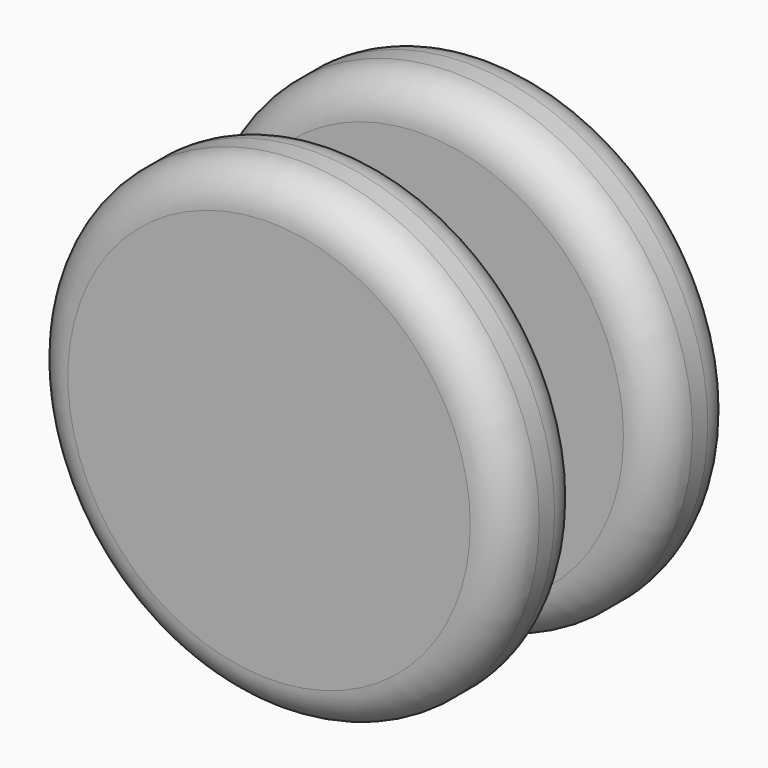
from build123d import *

# Parameters (mm, degrees)
F0_R     = 31.75
F1_DEPTH = 12.7
F2_R     = 5.08
F3_R     = 9.525
F4_DEPTH = 6.35
F7_D     = 2.54
F7_DEPTH = 25.4
F7_TIP   = 0.7630929862


with BuildPart() as f1:
    # F0 (on Front) → F1 (new body)
    with BuildSketch(Plane.XZ):
        Circle(F0_R)
    extrude(amount=F1_DEPTH)

    # F2
    f2_edges = [f1.edges().sort_by_distance(p)[0] for p in [
        (-31.75, -12.7, 0),
        (-31.75, 0, 0),
    ]]
    fillet(f2_edges, radius=F2_R)

    # F3 (on face) → F4 (join)
    with BuildSketch(Plane(origin=(0, 0, 0), x_dir=(-1, 0, 0), z_dir=(0, 1, 0))):
        Circle(F3_R)
    extrude(amount=F4_DEPTH)

    # F5: F1 across face


with BuildPart() as f1_1:
    add(f1.part)
    add(f1.part.mirror(Plane(origin=(0, 6.35, 0), x_dir=(-1, 0, 0), z_dir=(0, 1, 0))))

    # F7 (one way)
    with BuildSketch(Plane.XY):
        with Locations((0, 6.0745161027)):
            Circle(F7_D / 2)
    extrude(amount=-F7_DEPTH, mode=Mode.SUBTRACT)
    with Locations(Plane.XY):
        with Locations((0, 6.0745161027)):
            with Locations((0, 0, -(F7_DEPTH + F7_TIP / 2))):  # 118° drill point
                Cone(0, F7_D / 2, F7_TIP, mode=Mode.SUBTRACT)


solid = f1_1.part
